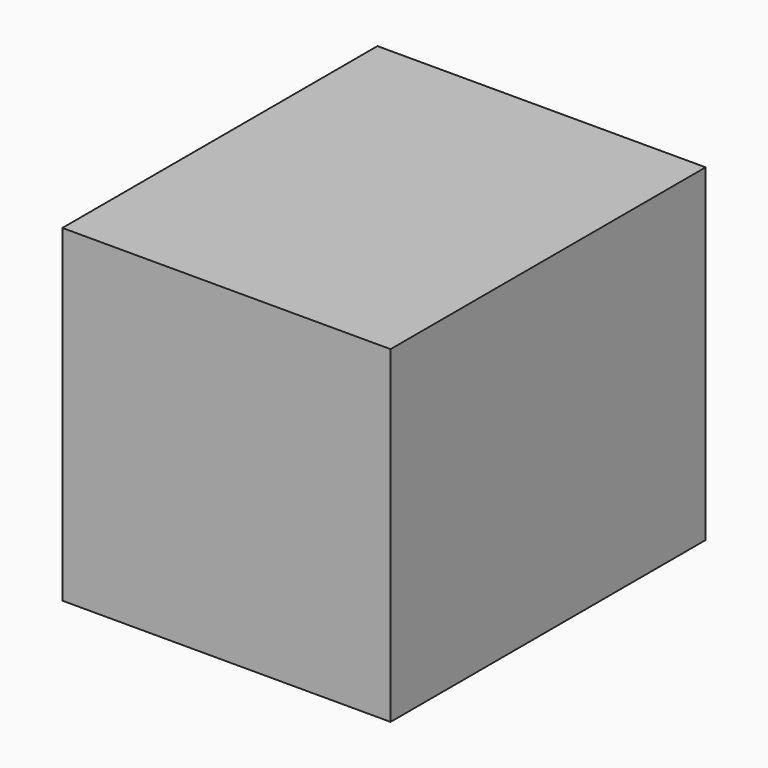
from build123d import *

# Parameters (mm, degrees)
F0_W     = 127
F0_H     = 127
F1_DEPTH = 25.4
F2_DEPTH = 101.6
F3_W     = 127
F3_H     = 127
F4_DEPTH = 25.4


with BuildPart() as f1:
    # F0 (on Front) → F1 (new body)
    with BuildSketch(Plane.XZ):
        with Locations((25.0412524156, 18.9714580774)):
            Rectangle(F0_W, F0_H)
    extrude(amount=F1_DEPTH)

    # F2 (add): a face of the model
    f2_faces = [f1.faces().sort_by_distance(p)[0] for p in [
        (25.0412524156, -25.4, 18.9714580774),
    ]]
    extrude(f2_faces, amount=F2_DEPTH)

    # F3 (on face) → F4 (join)
    with BuildSketch(Plane.XZ.offset(127)):
        with Locations((25.0412524156, 18.9714580774)):
            Rectangle(F3_W, F3_H)
    extrude(amount=F4_DEPTH)


solid = f1.part
